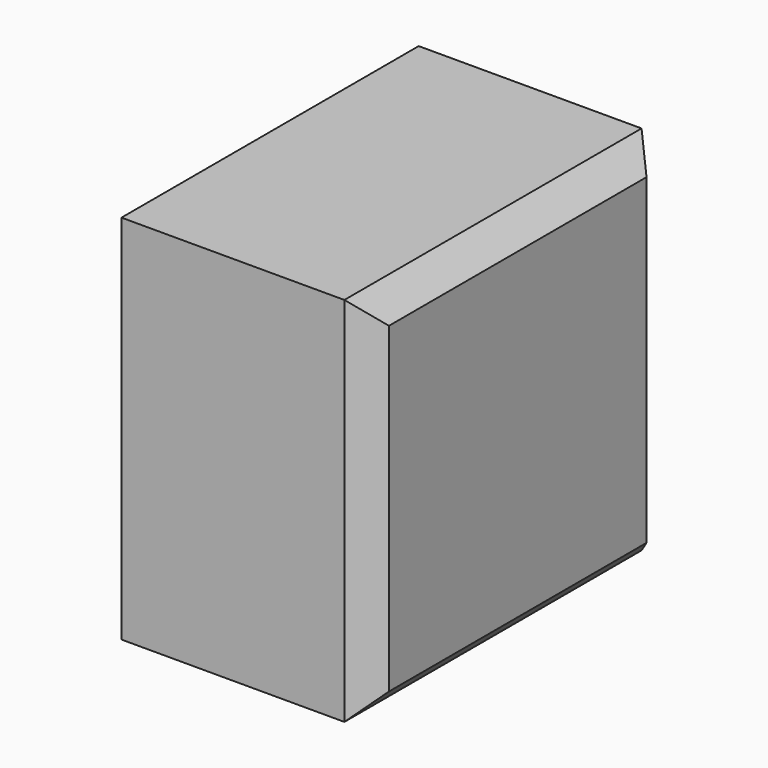
from build123d import *

# Parameters (mm, degrees)
F0_W     = 76.2
F0_H     = 76.2
F1_DEPTH = 50.8
F2_SIZE  = 5.08


with BuildPart() as f1:
    # F0 (on Right) → F1 (new body)
    with BuildSketch(Plane.YZ):
        with Locations((38.1, -38.1)):
            Rectangle(F0_W, F0_H)
    extrude(amount=F1_DEPTH)

    # F2
    f2_edges = [f1.edges().sort_by_distance(p)[0] for p in [
        (50.8, 38.1, 0),
        (50.8, 0, -38.1),
        (50.8, 76.2, -38.1),
        (50.8, 38.1, -76.2),
    ]]
    chamfer(f2_edges, length=F2_SIZE)


solid = f1.part
